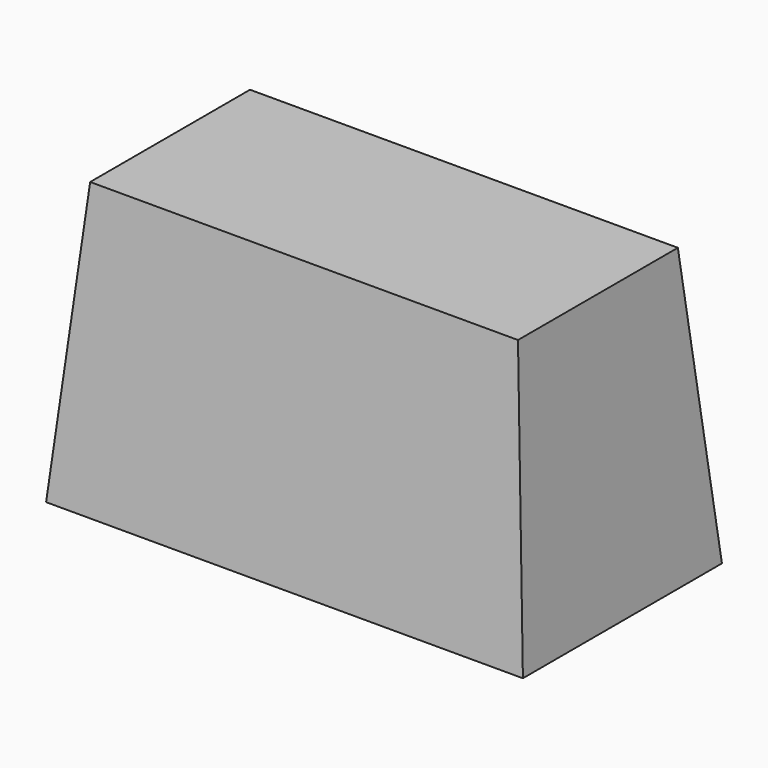
from build123d import *

# Parameters (mm, degrees)
F0_W     = 1168.4
F0_H     = 609.6
F1_DEPTH = 685.8
F1_TAPER = 5
F2_T     = -12.7


with BuildPart() as f1:
    # F0 (on Top) → F1 (new body)
    with BuildSketch(Plane.XY):
        Rectangle(F0_W, F0_H)
    extrude(amount=F1_DEPTH, taper=F1_TAPER)

    # F2
    f2_openings = [f1.faces().sort_by_distance(p)[0] for p in [
        (0, 0, 0),
    ]]
    offset(amount=F2_T, openings=f2_openings)


solid = f1.part
